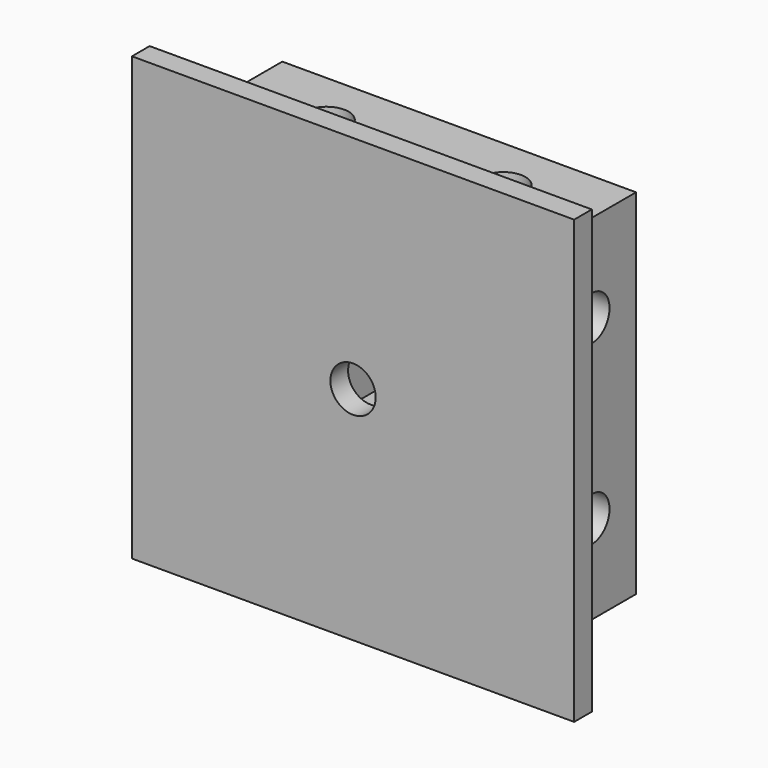
from build123d import *

# Parameters (mm, degrees)
SKETCH003_W     = 40
SKETCH003_H     = 40
SKETCH003_R     = 2.05
PAD003_DEPTH    = 2
SKETCH006_W     = 32
SKETCH006_H     = 32
SKETCH006_W_2   = 14
SKETCH006_H_2   = 14
PAD005_DEPTH    = 10
SKETCH029_R     = 2
POCKET010_DEPTH = 8
SKETCH030_R     = 2
POCKET011_DEPTH = 8
SKETCH031_R     = 2
POCKET012_DEPTH = 8


with BuildPart() as part:
    # Sketch003 → Pad003 (new body)
    with BuildSketch(Plane.XZ):
        with Locations((0, 20)):
            Rectangle(SKETCH003_W, SKETCH003_H)
        with Locations((0, 20)):
            Circle(SKETCH003_R, mode=Mode.SUBTRACT)
    extrude(amount=PAD003_DEPTH)

    # Sketch006 (on Face6 of Pad003) → Pad005 (join)
    with BuildSketch(Plane(origin=(0, 0, 0), x_dir=(1, 0, 0), z_dir=(0, 1, 0))):
        with Locations((0, -20)):
            Rectangle(SKETCH006_W, SKETCH006_H)
        with Locations((0, -20)):
            Rectangle(SKETCH006_W_2, SKETCH006_H_2, mode=Mode.SUBTRACT)
    extrude(amount=PAD005_DEPTH)

    # Sketch029 (on Face8 of Pad005) → Pocket010 (cut)
    with BuildSketch(Plane(origin=(0, 0, 36), x_dir=(-1, 0, 0), z_dir=(0, 0, 1))):
        with Locations((-8, -5)):
            Circle(SKETCH029_R)
        with Locations((8, -5)):
            Circle(SKETCH029_R)
    extrude(amount=-POCKET010_DEPTH, mode=Mode.SUBTRACT)

    # Sketch030 (on Face7 of Pocket010) → Pocket011 (cut)
    with BuildSketch(Plane(origin=(-16, 0, 0), x_dir=(0, 0, -1), z_dir=(-1, 0, 0))):
        with Locations((-28, -5)):
            Circle(SKETCH030_R)
        with Locations((-12, -5)):
            Circle(SKETCH030_R)
    extrude(amount=-POCKET011_DEPTH, mode=Mode.SUBTRACT)

    # Sketch031 (on Face9 of Pocket011) → Pocket012 (cut)
    with BuildSketch(Plane(origin=(16, 0, 0), x_dir=(0, 0, 1), z_dir=(1, 0, 0))):
        with Locations((12, -5)):
            Circle(SKETCH031_R)
        with Locations((28, -5)):
            Circle(SKETCH031_R)
    extrude(amount=-POCKET012_DEPTH, mode=Mode.SUBTRACT)


with BuildPart() as part_1:
    # Body003 placement: moved
    add(part.part.moved(Location((0, -200, 0))))


solid = part_1.part
